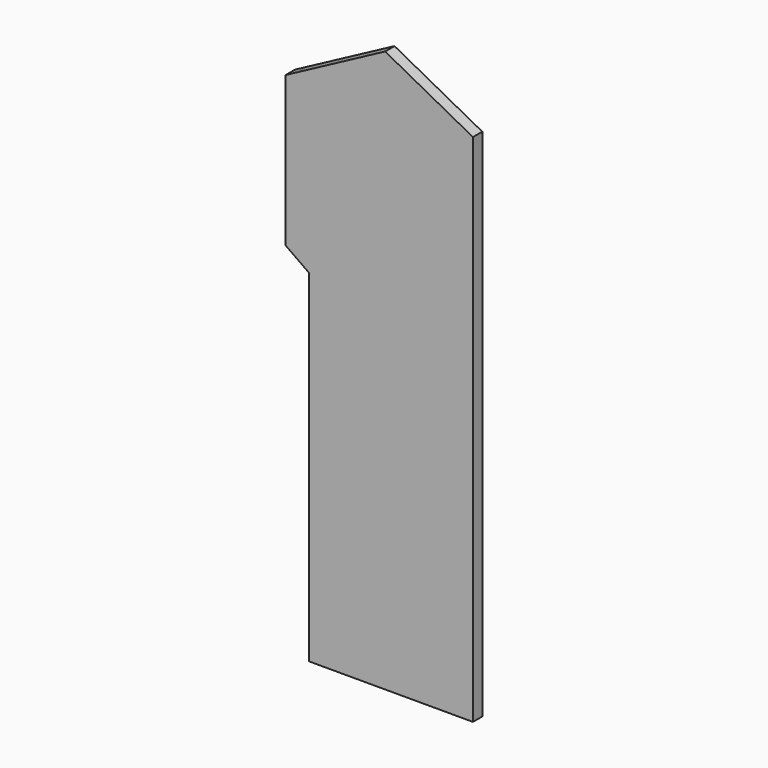
from build123d import *

# Parameters (mm, degrees)
F0_W     = 95.25
F0_H     = 279.4
F1_DEPTH = 6.35
F3_DEPTH = 25.4
F5_DEPTH = 6.35
F7_DEPTH = 6.35


with BuildPart() as f1:
    # F0 (on Front) → F1 (new body)
    with BuildSketch(Plane.XZ):
        with Locations((47.625, 139.7)):
            Rectangle(F0_W, F0_H)
        Polygon((47.625, 304.8), (0, 279.4), (95.25, 279.4), align=None)
    extrude(amount=F1_DEPTH)

    # F2 (on face) → F3 (cut)
    with BuildSketch(Plane.XZ.offset(6.35)):
        Polygon((0, 0), (6.35, 0), (6.35, 177.8), (0, 182.2827526427), align=None)
    extrude(amount=-F3_DEPTH, mode=Mode.SUBTRACT)

    # F4 (on face) → F5 (cut)
    with BuildSketch(Plane.XZ.offset(6.35)):
        Polygon((0, 182.2827526427), (6.35, 177.8), (6.35, 185.5728740667), (0, 190.0556267094), align=None)
    extrude(amount=-F5_DEPTH, mode=Mode.SUBTRACT)

    # F6 (on face) → F7 (join)
    with BuildSketch(Plane.XZ.offset(6.35)):
        Polygon((0, 190.0556267094), (0, 279.4), (-6.35, 276.0133333333), (-6.35, 194.5383793521), align=None)
    extrude(amount=-F7_DEPTH)


solid = f1.part
